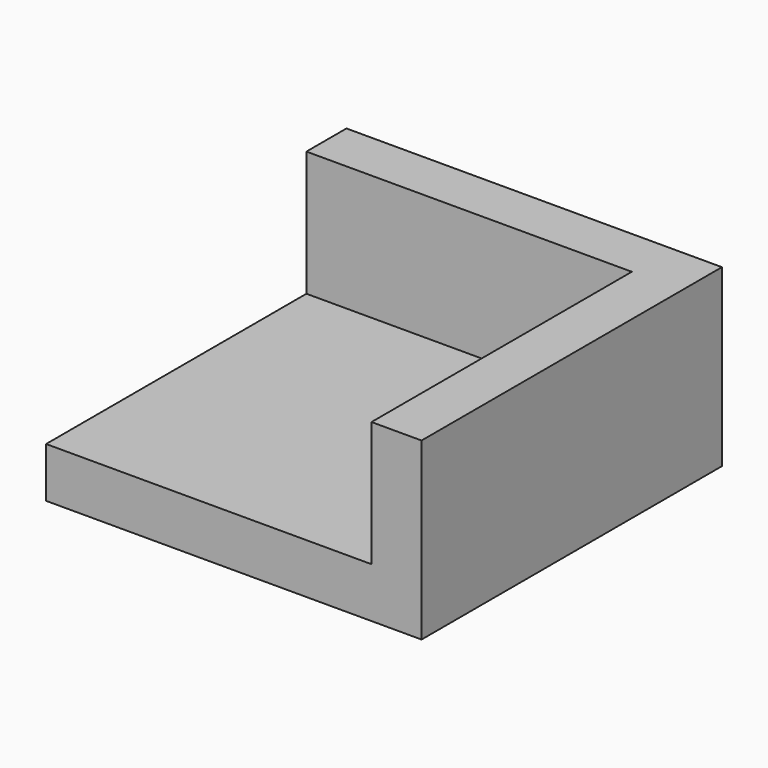
from build123d import *

# Parameters (mm, degrees)
SKETCH_W     = 15
SKETCH_H     = 15
PAD_DEPTH    = 2
PAD001_DEPTH = 5
SKETCH002_R  = 2.5
POCKET_DEPTH = 5


with BuildPart() as part:
    # Sketch → Pad (new body)
    with BuildSketch(Plane.XY):
        Rectangle(SKETCH_W, SKETCH_H)
    extrude(amount=PAD_DEPTH)

    # Sketch001 (on Face6 of Pad) → Pad001 (join)
    with BuildSketch(Plane.XY.offset(2)):
        Polygon((-7.5, 7.5), (7.5, 7.5), (7.5, -7.5), (5.5, -7.5), (5.5, 5.5), (-7.5, 5.5), align=None)
    extrude(amount=PAD001_DEPTH)

    # Sketch002 (on Face3 of Pad001) → Pocket (cut)
    with BuildSketch(Plane.XY.offset(2)):
        with Locations((2.75, 2.75)):
            Circle(SKETCH002_R)
    extrude(amount=-POCKET_DEPTH, mode=Mode.SUBTRACT)


solid = part.part
